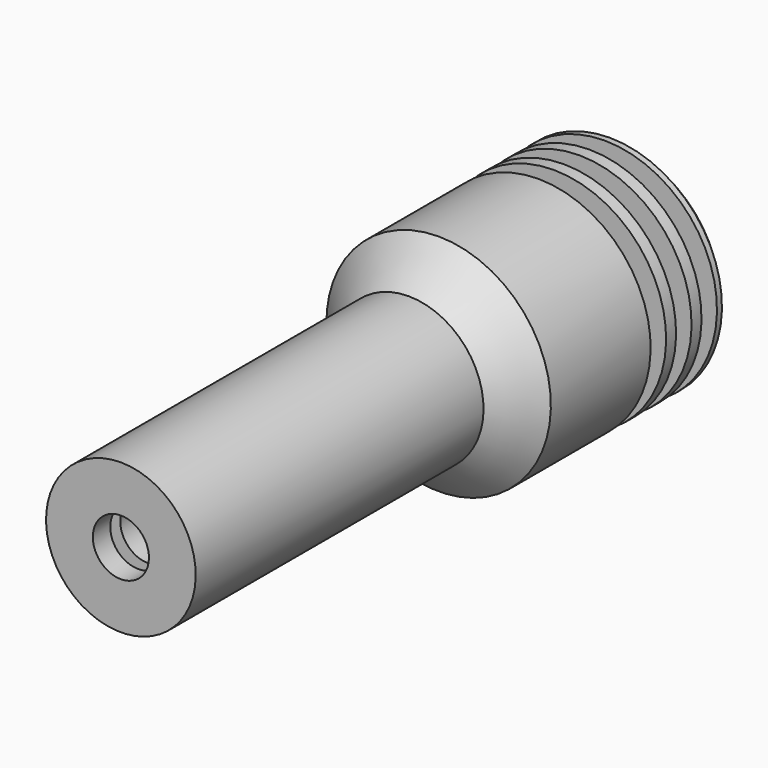
from build123d import *


with BuildPart() as f1:
    # F0 (on Right) → F1 (revolve)
    with BuildSketch(Plane.YZ):
        Polygon((28.85, 6), (0, 6), (0, 2.25), (1.75, 2.25), (1.75, 4), (2.75, 4), (2.75, 2.25), (37.75, 2.25), (39.049038, 0), (49, 0), (50, 0.57735), (50, 8), (49, 9), (48.5, 9), (48.5, 6), (46.95, 6), (46.95, 9), (45.95, 9), (45.95, 6), (44.4, 6), (44.4, 9), (43.4, 9), (43.4, 6), (41.85, 6), (41.85, 9), (31.85, 9), align=None)
    revolve(axis=Axis((0, 25.938479, 0), (0, 1, 0)))


solid = f1.part
